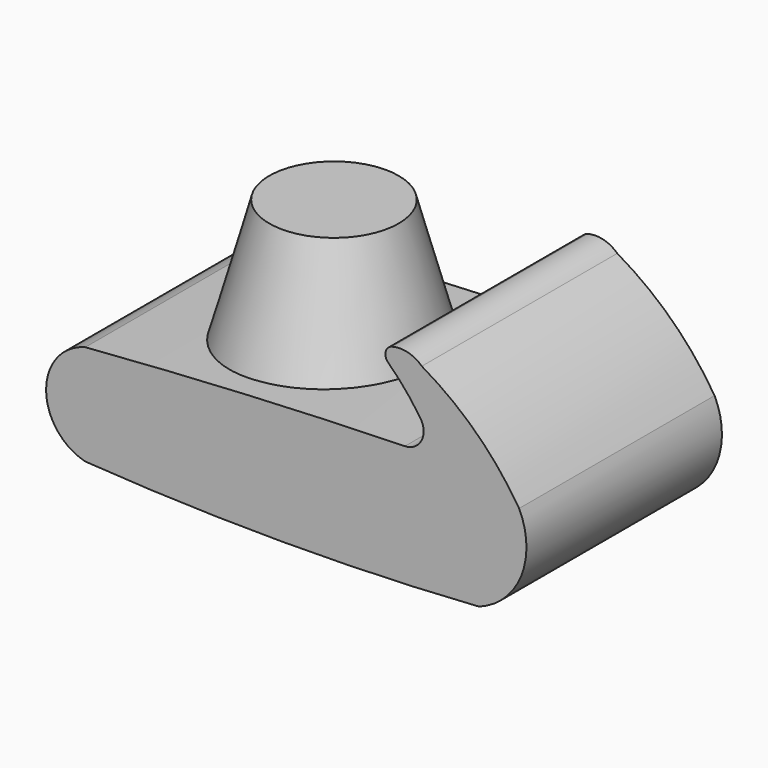
from build123d import *

# Parameters (mm, degrees)
F1_DEPTH = 85
F3_R     = 35
F5_R     = 22.5


with BuildPart() as f1:
    # F0 (on Front) → F1 (new body)
    with BuildSketch(Plane.XZ):
        with BuildLine():
            ThreePointArc((63.7742877007, 34.1240279377), (64.5465220808, 27.1869416861), (58.7020739913, 23.370930925))
            ThreePointArc((58.7020739913, 23.370930925), (3.0613762097, 21.1866856201), (-52.5, 17.5))
            ThreePointArc((-52.5, 17.5), (-66.1456468401, 0), (-52.5, -17.5))
            ThreePointArc((-52.5, -17.5), (15.9643832407, -19.7683548291), (84.4252407551, -17.3959732056))
            ThreePointArc((84.4252407551, -17.3959732056), (99.1331887646, -3.2098224332), (98.3971878886, 17.2114633024))
            ThreePointArc((98.3971878886, 17.2114633024), (83.4668262086, 35.5552294848), (64.5529776812, 49.7564896941))
            ThreePointArc((64.5529776812, 49.7564896941), (59.7351097313, 52.4024184623), (54.2385242879, 52.3840039968))
            ThreePointArc((54.2385242879, 52.3840039968), (52.0332250217, 50.2938956339), (52.6154153049, 47.3117902875))
            ThreePointArc((52.6154153049, 47.3117902875), (58.5436058248, 41.0130088326), (63.7742877007, 34.1240279377))
        make_face()
    extrude(amount=F1_DEPTH)


with BuildPart() as f6:
    # F3 (on offset) → F6 section 0
    with BuildSketch(Plane.XY.offset(17.5)):
        with Locations((0, -42.5)):
            Circle(F3_R)
    # F5 (on offset) → F6 section 1
    with BuildSketch(Plane.XY.offset(62.5)):
        with Locations((0, -42.5)):
            Circle(F5_R)
    loft()


solid = Compound([f1.part, f6.part])
